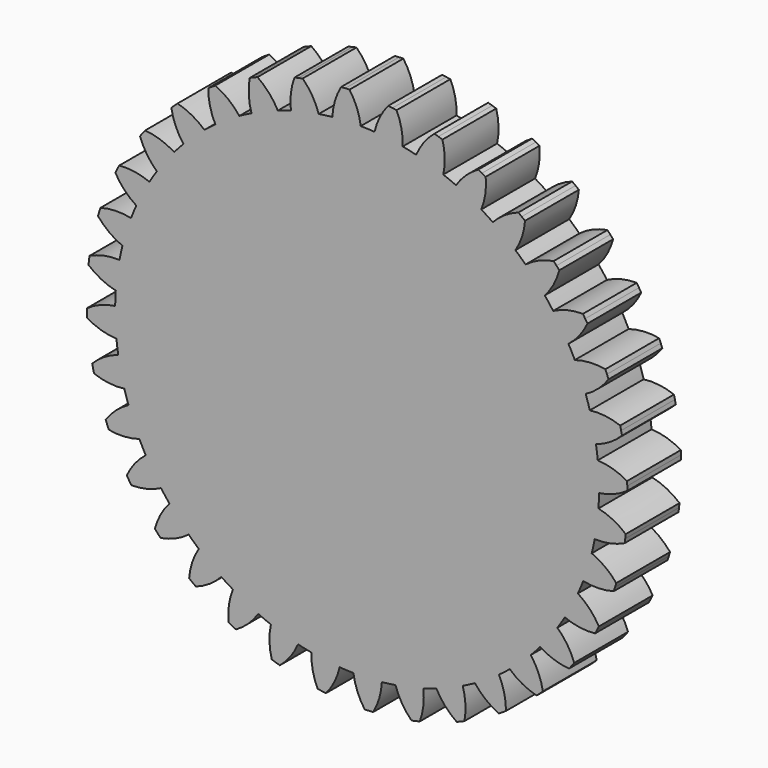
from build123d import *

# Parameters (mm, degrees)
F1_DEPTH = 5


with BuildPart() as f1:
    # F0 (on Front) → F1 (new body)
    with BuildSketch(Plane.XZ):
        with BuildLine():
            ThreePointArc((1.295607, 17.943286), (0.784713, 17.972878), (0.273183, 17.987926))
            ThreePointArc((0.273183, 17.987926), (-0.017493, 19.09481), (-0.563832, 20.100394))
            ThreePointArc((-0.563832, 20.100394), (-0.720494, 20.095388), (-0.877112, 20.089161))
            ThreePointArc((-0.877112, 20.089161), (-1.033676, 20.081714), (-1.190178, 20.073047))
            ThreePointArc((-1.190178, 20.073047), (-1.646795, 19.023673), (-1.839895, 17.895667))
            ThreePointArc((-1.839895, 17.895667), (-2.348166, 17.836093), (-2.854537, 17.762086))
            ThreePointArc((-2.854537, 17.762086), (-3.333007, 18.801679), (-4.045663, 19.697115))
            ThreePointArc((-4.045663, 19.697115), (-4.199075, 19.664981), (-4.352233, 19.631653))
            ThreePointArc((-4.352233, 19.631653), (-4.505125, 19.597132), (-4.657745, 19.56142))
            ThreePointArc((-4.657745, 19.56142), (-4.925203, 18.448697), (-4.919493, 17.304297))
            ThreePointArc((-4.919493, 17.304297), (-5.409697, 17.157368), (-5.895524, 16.996555))
            ThreePointArc((-5.895524, 16.996555), (-6.547248, 17.937269), (-7.404569, 18.69535))
            ThreePointArc((-7.404569, 18.69535), (-7.55007, 18.637064), (-7.695113, 18.577647))
            ThreePointArc((-7.695113, 18.577647), (-7.839689, 18.5171), (-7.983788, 18.455429))
            ThreePointArc((-7.983788, 18.455429), (-8.053961, 17.313168), (-7.849614, 16.187145))
            ThreePointArc((-7.849614, 16.187145), (-8.306858, 15.957325), (-8.757379, 15.714592))
            ThreePointArc((-8.757379, 15.714592), (-9.562555, 16.527844), (-10.53849, 17.125535))
            ThreePointArc((-10.53849, 17.125535), (-10.67166, 17.04287), (-10.804182, 16.959168))
            ThreePointArc((-10.804182, 16.959168), (-10.936047, 16.874436), (-11.067248, 16.788679))
            ThreePointArc((-11.067248, 16.788679), (-10.938003, 15.651586), (-10.541229, 14.578155))
            ThreePointArc((-10.541229, 14.578155), (-10.951618, 14.272427), (-11.353145, 13.955149))
            ThreePointArc((-11.353145, 13.955149), (-12.287308, 14.616228), (-13.352205, 15.03537))
            ThreePointArc((-13.352205, 15.03537), (-13.468997, 14.930836), (-13.584971, 14.825394))
            ThreePointArc((-13.584971, 14.825394), (-13.700119, 14.719051), (-13.814435, 14.611814))
            ThreePointArc((-13.814435, 14.611814), (-13.4897, 13.514439), (-12.912554, 12.526214))
            ThreePointArc((-12.912554, 12.526214), (-13.263619, 12.153868), (-13.603952, 11.771686))
            ThreePointArc((-13.603952, 11.771686), (-14.638717, 12.260506), (-15.760219, 12.488363))
            ThreePointArc((-15.760219, 12.488363), (-15.857085, 12.365136), (-15.952987, 12.241157))
            ThreePointArc((-15.952987, 12.241157), (-16.04792, 12.116435), (-16.141878, 11.990976))
            ThreePointArc((-16.141878, 11.990976), (-15.631519, 10.966663), (-14.891538, 10.093672))
            ThreePointArc((-14.891538, 10.093672), (-15.172612, 9.66602), (-15.441409, 9.230547))
            ThreePointArc((-15.441409, 9.230547), (-16.545337, 9.532255), (-17.689368, 9.561904))
            ThreePointArc((-17.689368, 9.561904), (-17.763363, 9.423728), (-17.83628, 9.28498))
            ThreePointArc((-17.83628, 9.28498), (-17.908113, 9.145667), (-17.978857, 9.005799))
            ThreePointArc((-17.978857, 9.005799), (-17.298382, 8.08567), (-16.418049, 7.354438))
            ThreePointArc((-16.418049, 7.354438), (-16.620593, 6.884475), (-16.809687, 6.408941))
            ThreePointArc((-16.809687, 6.408941), (-17.949235, 6.514371), (-19.081034, 6.34491))
            ThreePointArc((-19.081034, 6.34491), (-19.129911, 6.195985), (-19.177627, 6.046682))
            ThreePointArc((-19.177627, 6.046682), (-19.224177, 5.897013), (-19.269559, 5.746985))
            ThreePointArc((-19.269559, 5.746985), (-18.439642, 4.958998), (-17.445707, 4.391743))
            ThreePointArc((-17.445707, 4.391743), (-17.563565, 3.893749), (-17.667211, 3.392604))
            ThreePointArc((-17.667211, 3.392604), (-18.807754, 3.298551), (-19.892932, 2.93513))
            ThreePointArc((-19.892932, 2.93513), (-19.915206, 2.77998), (-19.936271, 2.62466))
            ThreePointArc((-19.936271, 2.62466), (-19.956124, 2.469181), (-19.974764, 2.313551))
            ThreePointArc((-19.974764, 2.313551), (-19.020623, 1.681649), (-17.943286, 1.295607))
            ThreePointArc((-17.943286, 1.295607), (-17.972878, 0.784713), (-17.987926, 0.273183))
            ThreePointArc((-17.987926, 0.273183), (-19.09481, -0.017493), (-20.100394, -0.563832))
            ThreePointArc((-20.100394, -0.563832), (-20.095388, -0.720494), (-20.089161, -0.877112))
            ThreePointArc((-20.089161, -0.877112), (-20.081714, -1.033676), (-20.073047, -1.190178))
            ThreePointArc((-20.073047, -1.190178), (-19.023673, -1.646795), (-17.895667, -1.839895))
            ThreePointArc((-17.895667, -1.839895), (-17.836093, -2.348166), (-17.762086, -2.854537))
            ThreePointArc((-17.762086, -2.854537), (-18.801679, -3.333007), (-19.697115, -4.045663))
            ThreePointArc((-19.697115, -4.045663), (-19.664981, -4.199075), (-19.631653, -4.352233))
            ThreePointArc((-19.631653, -4.352233), (-19.597132, -4.505125), (-19.56142, -4.657745))
            ThreePointArc((-19.56142, -4.657745), (-18.448697, -4.925203), (-17.304297, -4.919493))
            ThreePointArc((-17.304297, -4.919493), (-17.157368, -5.409697), (-16.996555, -5.895524))
            ThreePointArc((-16.996555, -5.895524), (-17.937269, -6.547248), (-18.69535, -7.404569))
            ThreePointArc((-18.69535, -7.404569), (-18.637064, -7.55007), (-18.577647, -7.695113))
            ThreePointArc((-18.577647, -7.695113), (-18.5171, -7.839689), (-18.455429, -7.983788))
            ThreePointArc((-18.455429, -7.983788), (-17.313168, -8.053961), (-16.187145, -7.849614))
            ThreePointArc((-16.187145, -7.849614), (-15.957325, -8.306858), (-15.714592, -8.757379))
            ThreePointArc((-15.714592, -8.757379), (-16.527844, -9.562555), (-17.125535, -10.53849))
            ThreePointArc((-17.125535, -10.53849), (-17.04287, -10.67166), (-16.959168, -10.804182))
            ThreePointArc((-16.959168, -10.804182), (-16.874436, -10.936047), (-16.788679, -11.067248))
            ThreePointArc((-16.788679, -11.067248), (-15.651586, -10.938003), (-14.578155, -10.541229))
            ThreePointArc((-14.578155, -10.541229), (-14.272427, -10.951618), (-13.955149, -11.353145))
            ThreePointArc((-13.955149, -11.353145), (-14.616228, -12.287308), (-15.03537, -13.352205))
            ThreePointArc((-15.03537, -13.352205), (-14.930836, -13.468997), (-14.825394, -13.584971))
            ThreePointArc((-14.825394, -13.584971), (-14.719051, -13.700119), (-14.611814, -13.814435))
            ThreePointArc((-14.611814, -13.814435), (-13.514439, -13.4897), (-12.526214, -12.912554))
            ThreePointArc((-12.526214, -12.912554), (-12.153868, -13.263619), (-11.771686, -13.603952))
            ThreePointArc((-11.771686, -13.603952), (-12.260506, -14.638717), (-12.488363, -15.760219))
            ThreePointArc((-12.488363, -15.760219), (-12.365136, -15.857085), (-12.241157, -15.952987))
            ThreePointArc((-12.241157, -15.952987), (-12.116435, -16.04792), (-11.990976, -16.141878))
            ThreePointArc((-11.990976, -16.141878), (-10.966663, -15.631519), (-10.093672, -14.891538))
            ThreePointArc((-10.093672, -14.891538), (-9.66602, -15.172612), (-9.230547, -15.441409))
            ThreePointArc((-9.230547, -15.441409), (-9.532255, -16.545337), (-9.561904, -17.689368))
            ThreePointArc((-9.561904, -17.689368), (-9.423728, -17.763363), (-9.28498, -17.83628))
            ThreePointArc((-9.28498, -17.83628), (-9.145667, -17.908113), (-9.005799, -17.978857))
            ThreePointArc((-9.005799, -17.978857), (-8.08567, -17.298382), (-7.354438, -16.418049))
            ThreePointArc((-7.354438, -16.418049), (-6.884475, -16.620593), (-6.408941, -16.809687))
            ThreePointArc((-6.408941, -16.809687), (-6.514371, -17.949235), (-6.34491, -19.081034))
            ThreePointArc((-6.34491, -19.081034), (-6.195985, -19.129911), (-6.046682, -19.177627))
            ThreePointArc((-6.046682, -19.177627), (-5.897013, -19.224177), (-5.746985, -19.269559))
            ThreePointArc((-5.746985, -19.269559), (-4.958998, -18.439642), (-4.391743, -17.445707))
            ThreePointArc((-4.391743, -17.445707), (-3.893749, -17.563565), (-3.392604, -17.667211))
            ThreePointArc((-3.392604, -17.667211), (-3.298551, -18.807754), (-2.93513, -19.892932))
            ThreePointArc((-2.93513, -19.892932), (-2.77998, -19.915206), (-2.62466, -19.936271))
            ThreePointArc((-2.62466, -19.936271), (-2.469181, -19.956124), (-2.313551, -19.974764))
            ThreePointArc((-2.313551, -19.974764), (-1.681649, -19.020623), (-1.295607, -17.943286))
            ThreePointArc((-1.295607, -17.943286), (-0.784713, -17.972878), (-0.273183, -17.987926))
            ThreePointArc((-0.273183, -17.987926), (0.017493, -19.09481), (0.563832, -20.100394))
            ThreePointArc((0.563832, -20.100394), (0.720494, -20.095388), (0.877112, -20.089161))
            ThreePointArc((0.877112, -20.089161), (1.033676, -20.081714), (1.190178, -20.073047))
            ThreePointArc((1.190178, -20.073047), (1.646795, -19.023673), (1.839895, -17.895667))
            ThreePointArc((1.839895, -17.895667), (2.348166, -17.836093), (2.854537, -17.762086))
            ThreePointArc((2.854537, -17.762086), (3.333007, -18.801679), (4.045663, -19.697115))
            ThreePointArc((4.045663, -19.697115), (4.199075, -19.664981), (4.352233, -19.631653))
            ThreePointArc((4.352233, -19.631653), (4.505125, -19.597132), (4.657745, -19.56142))
            ThreePointArc((4.657745, -19.56142), (4.925203, -18.448697), (4.919493, -17.304297))
            ThreePointArc((4.919493, -17.304297), (5.409697, -17.157368), (5.895524, -16.996555))
            ThreePointArc((5.895524, -16.996555), (6.547248, -17.937269), (7.404569, -18.69535))
            ThreePointArc((7.404569, -18.69535), (7.55007, -18.637064), (7.695113, -18.577647))
            ThreePointArc((7.695113, -18.577647), (7.839689, -18.5171), (7.983788, -18.455429))
            ThreePointArc((7.983788, -18.455429), (8.053961, -17.313168), (7.849614, -16.187145))
            ThreePointArc((7.849614, -16.187145), (8.306858, -15.957325), (8.757379, -15.714592))
            ThreePointArc((8.757379, -15.714592), (9.562555, -16.527844), (10.53849, -17.125535))
            ThreePointArc((10.53849, -17.125535), (10.67166, -17.04287), (10.804182, -16.959168))
            ThreePointArc((10.804182, -16.959168), (10.936047, -16.874436), (11.067248, -16.788679))
            ThreePointArc((11.067248, -16.788679), (10.938003, -15.651586), (10.541229, -14.578155))
            ThreePointArc((10.541229, -14.578155), (10.951618, -14.272427), (11.353145, -13.955149))
            ThreePointArc((11.353145, -13.955149), (12.287308, -14.616228), (13.352205, -15.03537))
            ThreePointArc((13.352205, -15.03537), (13.468997, -14.930836), (13.584971, -14.825394))
            ThreePointArc((13.584971, -14.825394), (13.700119, -14.719051), (13.814435, -14.611814))
            ThreePointArc((13.814435, -14.611814), (13.4897, -13.514439), (12.912554, -12.526214))
            ThreePointArc((12.912554, -12.526214), (13.263619, -12.153868), (13.603952, -11.771686))
            ThreePointArc((13.603952, -11.771686), (14.638717, -12.260506), (15.760219, -12.488363))
            ThreePointArc((15.760219, -12.488363), (15.857085, -12.365136), (15.952987, -12.241157))
            ThreePointArc((15.952987, -12.241157), (16.04792, -12.116435), (16.141878, -11.990976))
            ThreePointArc((16.141878, -11.990976), (15.631519, -10.966663), (14.891538, -10.093672))
            ThreePointArc((14.891538, -10.093672), (15.172612, -9.66602), (15.441409, -9.230547))
            ThreePointArc((15.441409, -9.230547), (16.545337, -9.532255), (17.689368, -9.561904))
            ThreePointArc((17.689368, -9.561904), (17.763363, -9.423728), (17.83628, -9.28498))
            ThreePointArc((17.83628, -9.28498), (17.908113, -9.145667), (17.978857, -9.005799))
            ThreePointArc((17.978857, -9.005799), (17.298382, -8.08567), (16.418049, -7.354438))
            ThreePointArc((16.418049, -7.354438), (16.620593, -6.884475), (16.809687, -6.408941))
            ThreePointArc((16.809687, -6.408941), (17.949235, -6.514371), (19.081034, -6.34491))
            ThreePointArc((19.081034, -6.34491), (19.129911, -6.195985), (19.177627, -6.046682))
            ThreePointArc((19.177627, -6.046682), (19.224177, -5.897013), (19.269559, -5.746985))
            ThreePointArc((19.269559, -5.746985), (18.439642, -4.958998), (17.445707, -4.391743))
            ThreePointArc((17.445707, -4.391743), (17.563565, -3.893749), (17.667211, -3.392604))
            ThreePointArc((17.667211, -3.392604), (18.807754, -3.298551), (19.892932, -2.93513))
            ThreePointArc((19.892932, -2.93513), (19.915206, -2.77998), (19.936271, -2.62466))
            ThreePointArc((19.936271, -2.62466), (19.956124, -2.469181), (19.974764, -2.313551))
            ThreePointArc((19.974764, -2.313551), (19.020623, -1.681649), (17.943286, -1.295607))
            ThreePointArc((17.943286, -1.295607), (17.972878, -0.784713), (17.987926, -0.273183))
            ThreePointArc((17.987926, -0.273183), (19.09481, 0.017493), (20.100394, 0.563832))
            ThreePointArc((20.100394, 0.563832), (20.095388, 0.720494), (20.089161, 0.877112))
            ThreePointArc((20.089161, 0.877112), (20.081714, 1.033676), (20.073047, 1.190178))
            ThreePointArc((20.073047, 1.190178), (19.023673, 1.646795), (17.895667, 1.839895))
            ThreePointArc((17.895667, 1.839895), (17.836093, 2.348166), (17.762086, 2.854537))
            ThreePointArc((17.762086, 2.854537), (18.801679, 3.333007), (19.697115, 4.045663))
            ThreePointArc((19.697115, 4.045663), (19.664981, 4.199075), (19.631653, 4.352233))
            ThreePointArc((19.631653, 4.352233), (19.597132, 4.505125), (19.56142, 4.657745))
            ThreePointArc((19.56142, 4.657745), (18.448697, 4.925203), (17.304297, 4.919493))
            ThreePointArc((17.304297, 4.919493), (17.157368, 5.409697), (16.996555, 5.895524))
            ThreePointArc((16.996555, 5.895524), (17.937269, 6.547248), (18.69535, 7.404569))
            ThreePointArc((18.69535, 7.404569), (18.637064, 7.55007), (18.577647, 7.695113))
            ThreePointArc((18.577647, 7.695113), (18.5171, 7.839689), (18.455429, 7.983788))
            ThreePointArc((18.455429, 7.983788), (17.313168, 8.053961), (16.187145, 7.849614))
            ThreePointArc((16.187145, 7.849614), (15.957325, 8.306858), (15.714592, 8.757379))
            ThreePointArc((15.714592, 8.757379), (16.527844, 9.562555), (17.125535, 10.53849))
            ThreePointArc((17.125535, 10.53849), (17.04287, 10.67166), (16.959168, 10.804182))
            ThreePointArc((16.959168, 10.804182), (16.874436, 10.936047), (16.788679, 11.067248))
            ThreePointArc((16.788679, 11.067248), (15.651586, 10.938003), (14.578155, 10.541229))
            ThreePointArc((14.578155, 10.541229), (14.272427, 10.951618), (13.955149, 11.353145))
            ThreePointArc((13.955149, 11.353145), (14.616228, 12.287308), (15.03537, 13.352205))
            ThreePointArc((15.03537, 13.352205), (14.930836, 13.468997), (14.825394, 13.584971))
            ThreePointArc((14.825394, 13.584971), (14.719051, 13.700119), (14.611814, 13.814435))
            ThreePointArc((14.611814, 13.814435), (13.514439, 13.4897), (12.526214, 12.912554))
            ThreePointArc((12.526214, 12.912554), (12.153868, 13.263619), (11.771686, 13.603952))
            ThreePointArc((11.771686, 13.603952), (12.260506, 14.638717), (12.488363, 15.760219))
            ThreePointArc((12.488363, 15.760219), (12.365136, 15.857085), (12.241157, 15.952987))
            ThreePointArc((12.241157, 15.952987), (12.116435, 16.04792), (11.990976, 16.141878))
            ThreePointArc((11.990976, 16.141878), (10.966663, 15.631519), (10.093672, 14.891538))
            ThreePointArc((10.093672, 14.891538), (9.66602, 15.172612), (9.230547, 15.441409))
            ThreePointArc((9.230547, 15.441409), (9.532255, 16.545337), (9.561904, 17.689368))
            ThreePointArc((9.561904, 17.689368), (9.423728, 17.763363), (9.28498, 17.83628))
            ThreePointArc((9.28498, 17.83628), (9.145667, 17.908113), (9.005799, 17.978857))
            ThreePointArc((9.005799, 17.978857), (8.08567, 17.298382), (7.354438, 16.418049))
            ThreePointArc((7.354438, 16.418049), (6.884475, 16.620593), (6.408941, 16.809687))
            ThreePointArc((6.408941, 16.809687), (6.514371, 17.949235), (6.34491, 19.081034))
            ThreePointArc((6.34491, 19.081034), (6.195985, 19.129911), (6.046682, 19.177627))
            ThreePointArc((6.046682, 19.177627), (5.897013, 19.224177), (5.746985, 19.269559))
            ThreePointArc((5.746985, 19.269559), (4.958998, 18.439642), (4.391743, 17.445707))
            ThreePointArc((4.391743, 17.445707), (3.893749, 17.563565), (3.392604, 17.667211))
            ThreePointArc((3.392604, 17.667211), (3.298551, 18.807754), (2.93513, 19.892932))
            ThreePointArc((2.93513, 19.892932), (2.77998, 19.915206), (2.62466, 19.936271))
            ThreePointArc((2.62466, 19.936271), (2.469181, 19.956124), (2.313551, 19.974764))
            ThreePointArc((2.313551, 19.974764), (1.681649, 19.020623), (1.295607, 17.943286))
        make_face()
    extrude(amount=F1_DEPTH)


solid = f1.part
